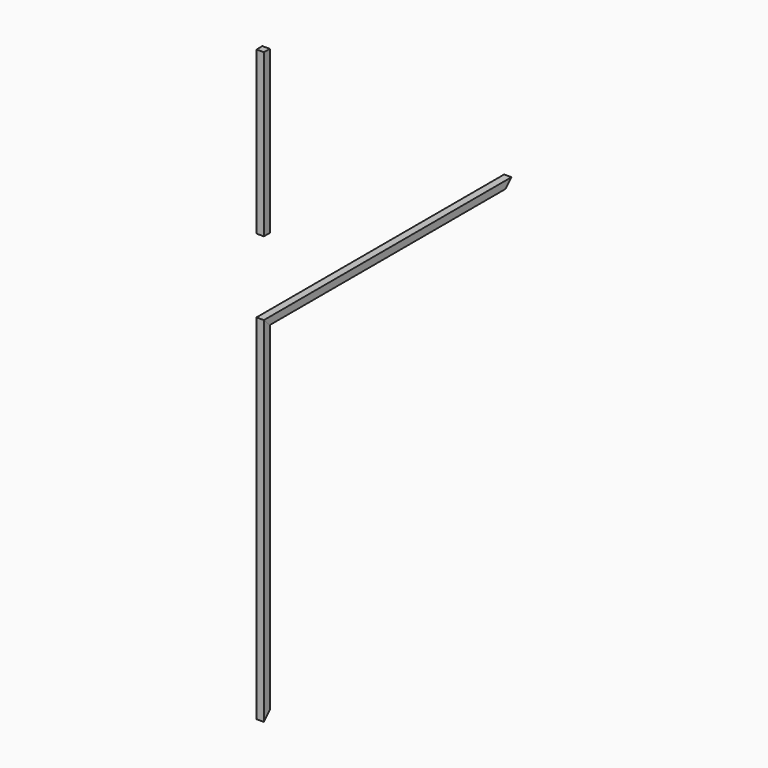
from build123d import *

# Parameters (mm, degrees)
F2_DEPTH = 50.8
F4_DEPTH = 50.8
F5_W     = 50.8
F5_H     = 1117.6
F6_DEPTH = 50.8


with BuildPart() as f2:
    # F1 (on Right) → F2 (new body)
    with BuildSketch(Plane.YZ):
        Polygon((50.8, 2387.6), (0, 2438.4), (0, 0), (50.8, 50.8), align=None)
    extrude(amount=F2_DEPTH)


with BuildPart() as f4:
    # F3 (on Right) → F4 (new body)
    with BuildSketch(Plane.YZ):
        Polygon((2133.6, 2438.4), (0, 2438.4), (50.8, 2387.6), (2082.8, 2387.6), align=None)
    extrude(amount=F4_DEPTH)


with BuildPart() as f6:
    # F5 (on Right) → F6 (new body)
    with BuildSketch(Plane.YZ):
        with Locations((25.4, 3505.2)):
            Rectangle(F5_W, F5_H)
    extrude(amount=F6_DEPTH)


solid = Compound([f2.part, f4.part, f6.part])
